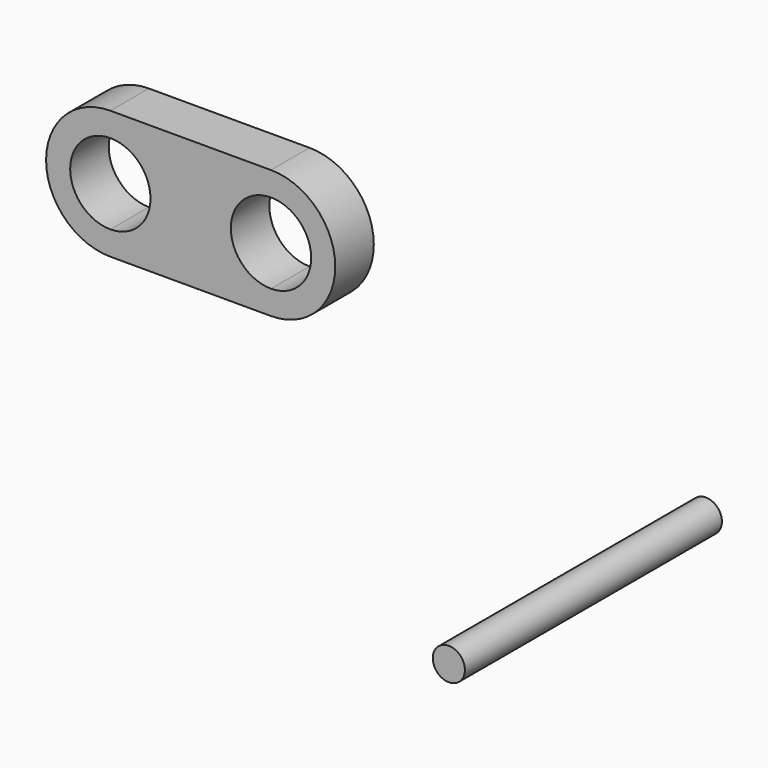
from build123d import *

# Parameters (mm, degrees)
F1_DEPTH = 1.5
F2_R     = 1
F3_DEPTH = 10


with BuildPart() as f1:
    # F0 (on Front) → F1 (new body, symmetric)
    with BuildSketch(Plane.XZ):
        with BuildLine():
            Line((-27.870757, 11.30302), (-27.870757, 9.80302))
            Line((-27.870757, 9.80302), (-17.870757, 9.80302))
            Line((-17.870757, 9.80302), (-17.870757, 11.30302))
            ThreePointArc((-17.870757, 11.30302), (-20.370757, 13.80302), (-17.870757, 16.30302))
            Line((-17.870757, 16.30302), (-17.870757, 17.80302))
            Line((-17.870757, 17.80302), (-27.870757, 17.80302))
            Line((-27.870757, 17.80302), (-27.870757, 16.30302))
            ThreePointArc((-27.870757, 16.30302), (-26.10299, 15.570787), (-25.370757, 13.80302))
            ThreePointArc((-25.370757, 13.80302), (-26.10299, 12.035253), (-27.870757, 11.30302))
        make_face()
        with BuildLine():
            Line((-17.870757, 11.30302), (-17.870757, 9.80302))
            ThreePointArc((-17.870757, 9.80302), (-13.870757, 13.80302), (-17.870757, 17.80302))
            Line((-17.870757, 17.80302), (-17.870757, 16.30302))
            ThreePointArc((-17.870757, 16.30302), (-16.10299, 15.570787), (-15.370757, 13.80302))
            ThreePointArc((-15.370757, 13.80302), (-16.10299, 12.035253), (-17.870757, 11.30302))
        make_face()
        with BuildLine():
            ThreePointArc((-27.870757, 17.80302), (-31.870757, 13.80302), (-27.870757, 9.80302))
            Line((-27.870757, 9.80302), (-27.870757, 11.30302))
            ThreePointArc((-27.870757, 11.30302), (-30.370757, 13.80302), (-27.870757, 16.30302))
            Line((-27.870757, 16.30302), (-27.870757, 17.80302))
        make_face()
    extrude(amount=F1_DEPTH, both=True)


with BuildPart() as f3:
    # F2 (on Front) → F3 (new body, symmetric)
    with BuildSketch(Plane.XZ):
        Circle(F2_R)
    extrude(amount=F3_DEPTH, both=True)


solid = Compound([f1.part, f3.part])
